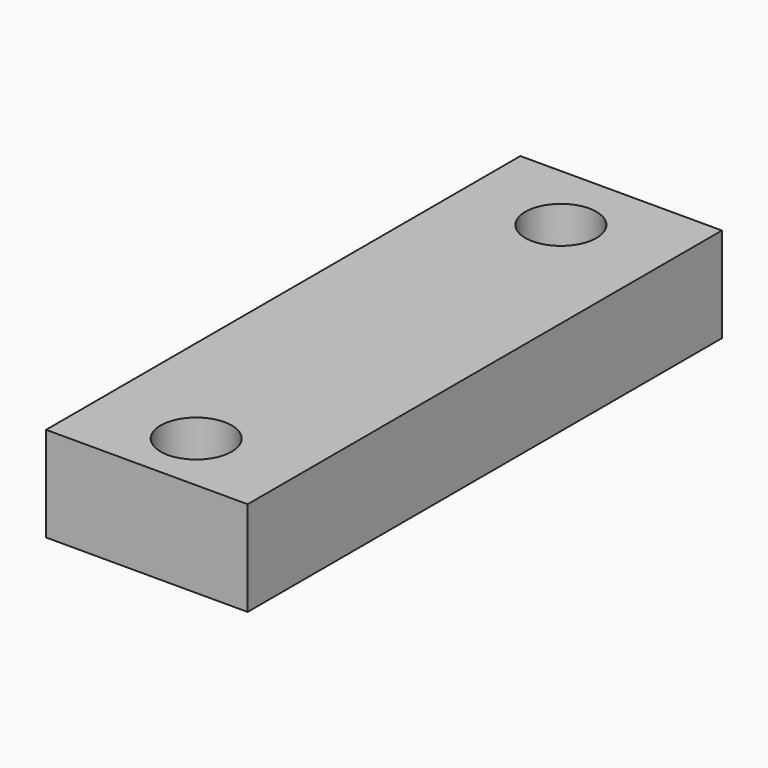
from build123d import *

# Parameters (mm, degrees)
F0_W     = 17
F0_H     = 50
F0_R     = 3
F1_DEPTH = 8
F2_R     = 1.25
F3_DEPTH = 8


with BuildPart() as f1:
    # F0 (on Top) → F1 (new body)
    with BuildSketch(Plane.XY):
        with Locations((8.5, 25)):
            Rectangle(F0_W, F0_H)
        with Locations((8.5, 5.2)):
            Circle(F0_R, mode=Mode.SUBTRACT)
        with Locations((8.219655, 44)):
            Circle(F0_R, mode=Mode.SUBTRACT)
    extrude(amount=F1_DEPTH)

    # F2 (on face) → F3 (cut)
    with BuildSketch(Plane(origin=(0, 50, 0), x_dir=(-1, 0, 0), z_dir=(0, 1, 0))):
        with Locations((-14, 4)):
            Circle(F2_R)
        with Locations((-3, 4)):
            Circle(F2_R)
    extrude(amount=-F3_DEPTH, mode=Mode.SUBTRACT)


solid = f1.part
